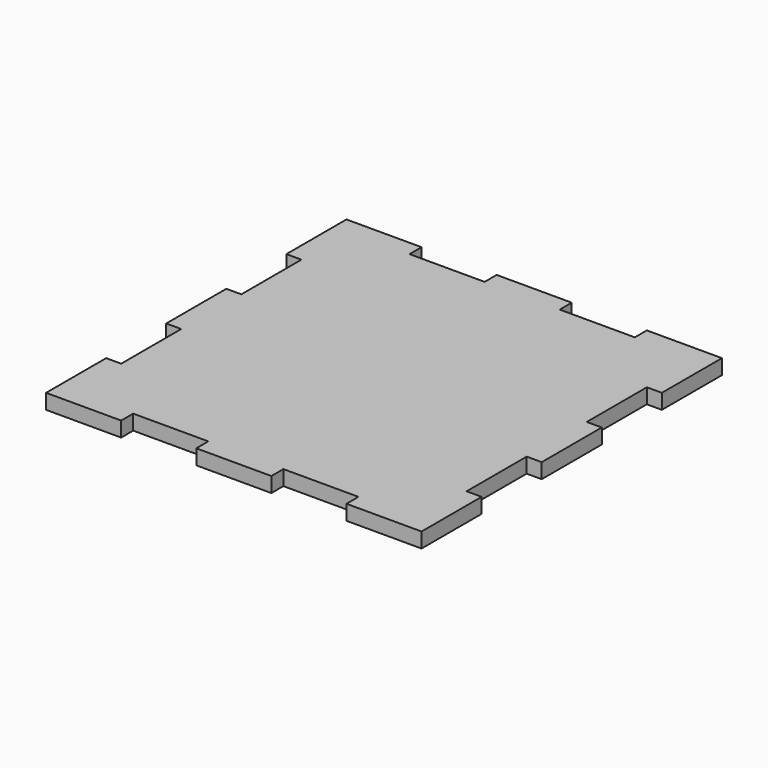
from build123d import *

# Parameters (mm, degrees)
F0_W     = 100
F0_H     = 100
F1_DEPTH = 4
F2_W     = 20
F2_H     = 4
F2_W_2   = 4
F2_H_2   = 20
F3_DEPTH = 4


with BuildPart() as f1:
    # F0 (on Top) → F1 (new body)
    with BuildSketch(Plane.XY):
        with Locations((50, 50)):
            Rectangle(F0_W, F0_H)
    extrude(amount=F1_DEPTH)

    # F2 (on Top) → F3 (cut)
    with BuildSketch(Plane.XY):
        with Locations((30, 2)):
            Rectangle(F2_W, F2_H)
        with Locations((70, 2)):
            Rectangle(F2_W, F2_H)
        with Locations((2, 30)):
            Rectangle(F2_W_2, F2_H_2)
        with Locations((2, 70)):
            Rectangle(F2_W_2, F2_H_2)
        with Locations((30, 98)):
            Rectangle(F2_W, F2_H)
        with Locations((70, 98)):
            Rectangle(F2_W, F2_H)
        with Locations((98, 70)):
            Rectangle(F2_W_2, F2_H_2)
        with Locations((98, 30)):
            Rectangle(F2_W_2, F2_H_2)
    extrude(amount=F3_DEPTH, mode=Mode.SUBTRACT)


solid = f1.part
